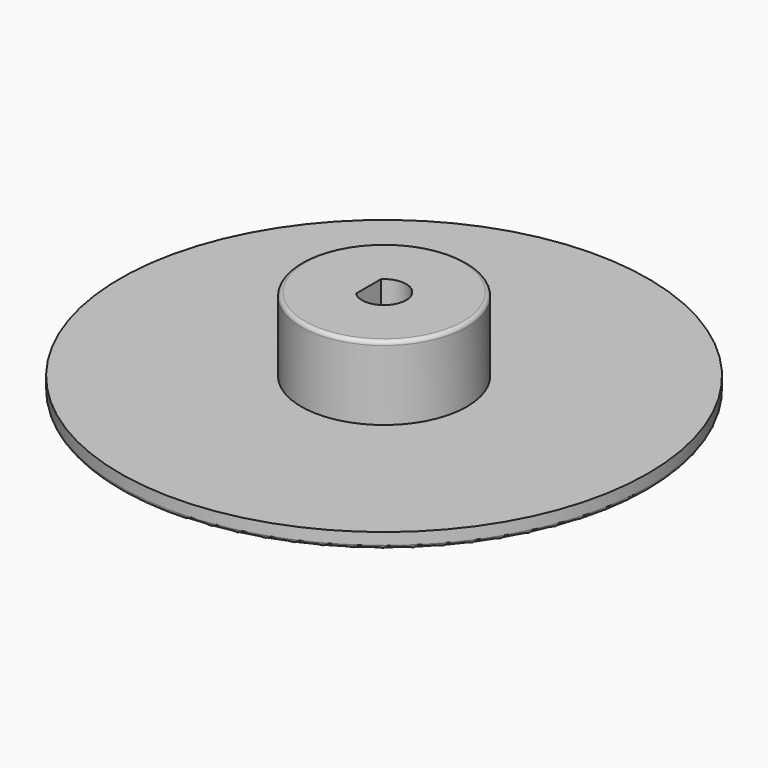
from build123d import *

# Parameters (mm, degrees)
F0_R     = 20.37
F0_R_2   = 6.4
F1_DEPTH = 1.2
F2_DEPTH = 5.7
F3_R     = 0.3


with BuildPart() as f1:
    # F0 (on Top) → F1 (new body)
    with BuildSketch(Plane.XY):
        Circle(F0_R)
        Circle(F0_R_2, mode=Mode.SUBTRACT)
        Circle(F0_R_2)
        with BuildLine():
            ThreePointArc((-1.2, 1.2041594579), (1.7, 0), (-1.2, -1.2041594579))
            Line((-1.2, -1.2041594579), (-1.2, 1.2041594579))
        make_face(mode=Mode.SUBTRACT)
        with BuildLine():
            Line((-1.2, 1.2041594579), (-1.2, -1.2041594579))
            ThreePointArc((-1.2, -1.2041594579), (1.7, 0), (-1.2, 1.2041594579))
        make_face()
    extrude(amount=-F1_DEPTH)

    # F0 (on Top) → F2 (join)
    with BuildSketch(Plane.XY):
        Circle(F0_R_2)
        with BuildLine():
            ThreePointArc((-1.2, 1.2041594579), (1.7, 0), (-1.2, -1.2041594579))
            Line((-1.2, -1.2041594579), (-1.2, 1.2041594579))
        make_face(mode=Mode.SUBTRACT)
    extrude(amount=F2_DEPTH)

    # F3
    f3_edges = [f1.edges().sort_by_distance(p)[0] for p in [
        (-20.37, 0, -1.2),
        (-6.4, 0, 5.7),
    ]]
    fillet(f3_edges, radius=F3_R)


solid = f1.part
